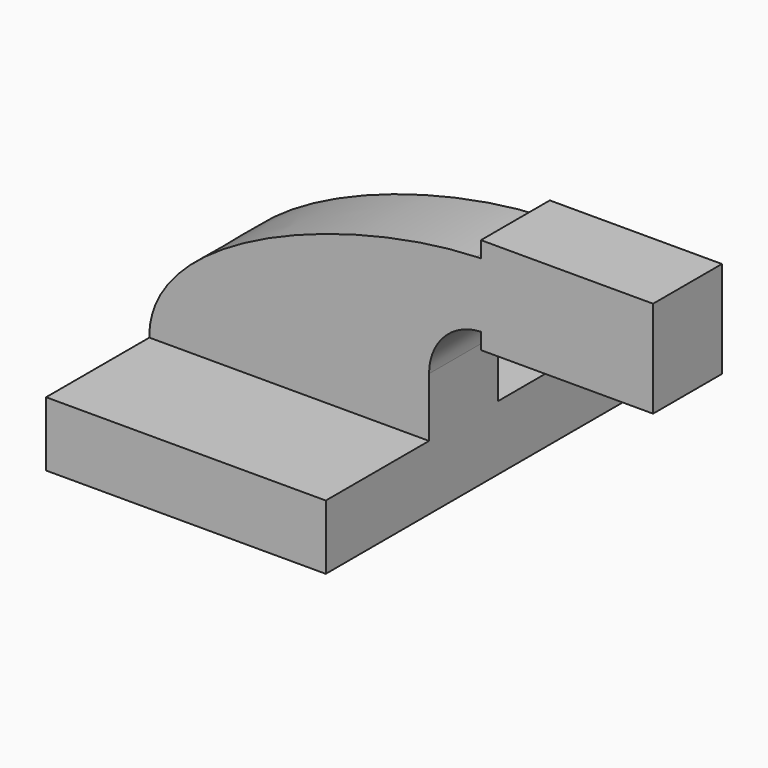
from build123d import *

# Parameters (mm, degrees)
F0_W     = 82.55
F0_H     = 19.05
F1_DEPTH = 63.5
F2_DEPTH = 25.4


with BuildPart() as f1:
    # F0 (on Front) → F1 (new body, symmetric)
    with BuildSketch(Plane.XZ):
        with Locations((-30.761715, -21.241364)):
            Rectangle(F0_W, F0_H)
    extrude(amount=F1_DEPTH, both=True)

    # F0 (on Front) → F2 (join)
    with BuildSketch(Plane.XZ):
        with BuildLine():
            add(Edge.make_bspline(
                [(24.511153, 40.635255), (-11.916815, 39.437693), (-72.4846, 18.169401), (-72.036715, -11.716364)],
                knots=[2.279177, 2.279177, 2.279177, 2.279177, 111.826369, 111.826369, 111.826369, 111.826369], degree=3))
            Line((-72.036715, -11.716364), (10.513285, -11.716364))
            Line((10.513285, -11.716364), (10.513285, 5.760737))
            ThreePointArc((10.513285, 5.760737), (14.965515, 16.785073), (25.824902, 21.625737))
            Line((25.824902, 21.625737), (25.824902, 40.669934))
            add(Edge.make_bspline(
                [(25.824902, 40.669934), (25.390633, 40.661336), (24.952666, 40.64977), (24.511153, 40.635255)],
                knots=[0.951446, 0.951446, 0.951446, 0.951446, 2.279177, 2.279177, 2.279177, 2.279177], degree=3))
        make_face()
        with BuildLine():
            Line((25.824902, 45.433636), (25.824902, 40.681193))
            ThreePointArc((25.824902, 40.681193), (26.288811, 40.685596), (26.752736, 40.683836))
            add(Edge.make_bspline(
                [(26.752736, 40.683836), (26.445394, 40.680731), (26.136098, 40.676095), (25.824902, 40.669934)],
                knots=[0, 0, 0, 0, 0.951446, 0.951446, 0.951446, 0.951446], degree=3))
            Line((25.824902, 40.669934), (25.824902, 21.625737))
            Line((25.824902, 21.625737), (25.824902, 16.858636))
            Line((25.824902, 16.858636), (76.624902, 16.858636))
            Line((76.624902, 16.858636), (76.624902, 45.433636))
            Line((76.624902, 45.433636), (25.824902, 45.433636))
        make_face()
    extrude(amount=F2_DEPTH)


solid = f1.part
